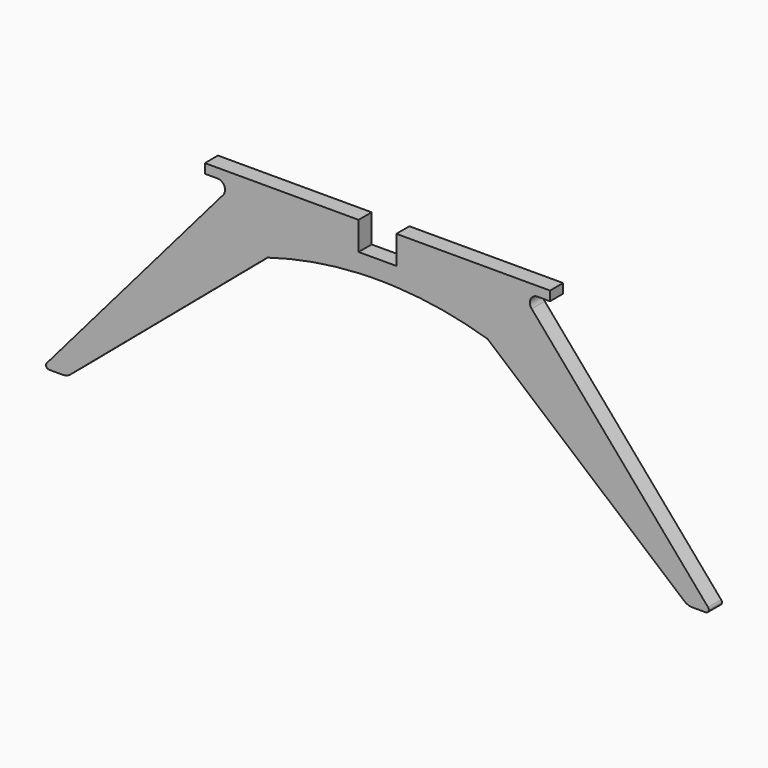
from build123d import *

# Parameters (mm, degrees)
F1_DEPTH = 26


with BuildPart() as f1:
    # F0 (on Front) → F1 (new body)
    with BuildSketch(Plane.XZ):
        with BuildLine():
            ThreePointArc((522.115478, -370), (526.65902, -367.087157), (525.908713, -361.74249))
            Line((525.908713, -361.74249), (245.312642, -35))
            ThreePointArc((245.312642, -35), (243.49537, -22.055015), (254.5, -15))
            Line((254.5, -15), (274.5, -15))
            Line((274.5, -15), (274.5, 0))
            Line((274.5, 0), (30, 0))
            Line((30, 0), (30, -45))
            Line((30, -45), (-30, -45))
            Line((-30, -45), (-30, 0))
            Line((-30, 0), (-274.5, 0))
            Line((-274.5, 0), (-274.5, -15))
            Line((-274.5, -15), (-254.5, -15))
            ThreePointArc((-254.5, -15), (-243.49537, -22.055015), (-245.312642, -35))
            Line((-245.312642, -35), (-525.908713, -361.74249))
            ThreePointArc((-525.908713, -361.74249), (-526.65902, -367.087157), (-522.115478, -370))
            Line((-522.115478, -370), (-500.930536, -370))
            ThreePointArc((-500.930536, -370), (-494.044191, -368.777067), (-488, -365.257826))
            Line((-488, -365.257826), (-175, -100))
            ThreePointArc((-175, -100), (-103.279947, -82.867809), (-30, -74.662483))
            ThreePointArc((-30, -74.662483), (0, -73.912014), (30, -74.662483))
            ThreePointArc((30, -74.662483), (103.279947, -82.867809), (175, -100))
            Line((175, -100), (488, -365.257826))
            ThreePointArc((488, -365.257826), (494.044191, -368.777067), (500.930536, -370))
            Line((500.930536, -370), (522.115478, -370))
        make_face()
    extrude(amount=F1_DEPTH)


solid = f1.part
